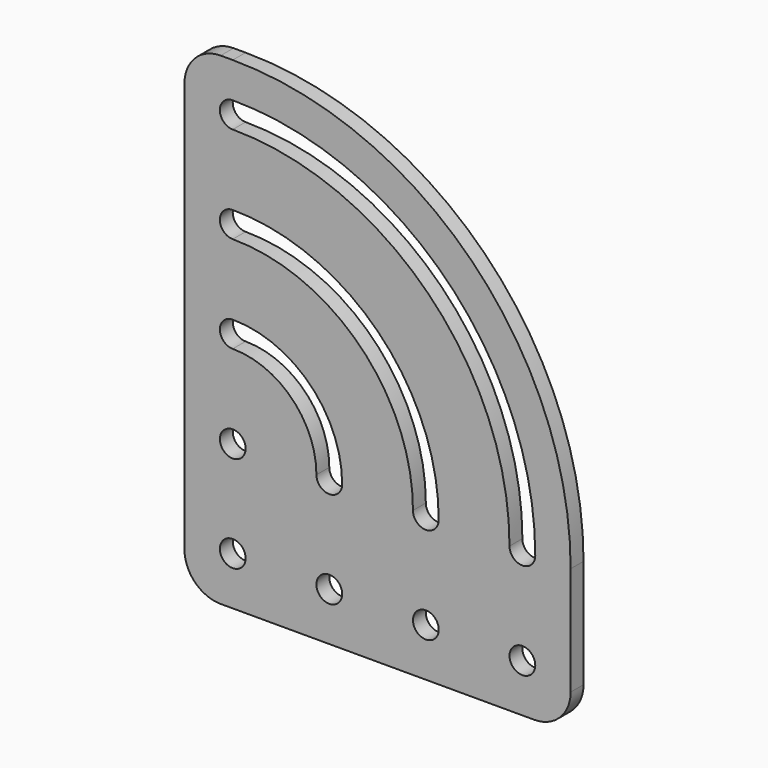
from build123d import *

# Parameters (mm, degrees)
F0_R     = 1.6
F1_DEPTH = 2


with BuildPart() as f1:
    # F0 (on Front) → F1 (new body)
    with BuildSketch(Plane.XZ):
        with BuildLine():
            ThreePointArc((0, 4.5), (1.318019, 1.318019), (4.5, 0))
            Line((4.5, 0), (43.5, 0))
            ThreePointArc((43.5, 0), (46.681981, 1.318019), (48, 4.5))
            Line((48, 4.5), (48, 18))
            ThreePointArc((48, 18), (35.698485, 47.698485), (6, 60))
            Line((6, 60), (4.5, 60))
            ThreePointArc((4.5, 60), (1.318019, 58.681981), (0, 55.5))
            Line((0, 55.5), (0, 4.5))
        make_face()
        with Locations((6, 6)):
            Circle(F0_R, mode=Mode.SUBTRACT)
        with Locations((18, 6)):
            Circle(F0_R, mode=Mode.SUBTRACT)
        with Locations((6, 18)):
            Circle(F0_R, mode=Mode.SUBTRACT)
        with BuildLine():
            ThreePointArc((16.4, 18), (13.353911, 25.353911), (6, 28.4))
            ThreePointArc((6, 28.4), (4.4, 30), (6, 31.6))
            ThreePointArc((6, 31.6), (15.616652, 27.616652), (19.6, 18))
            ThreePointArc((19.6, 18), (18, 16.4), (16.4, 18))
        make_face(mode=Mode.SUBTRACT)
        with Locations((30, 6)):
            Circle(F0_R, mode=Mode.SUBTRACT)
        with Locations((42, 6)):
            Circle(F0_R, mode=Mode.SUBTRACT)
        with BuildLine():
            ThreePointArc((28.4, 18), (21.839192, 33.839192), (6, 40.4))
            ThreePointArc((6, 40.4), (4.4, 42), (6, 43.6))
            ThreePointArc((6, 43.6), (24.101934, 36.101934), (31.6, 18))
            ThreePointArc((31.6, 18), (30, 16.4), (28.4, 18))
        make_face(mode=Mode.SUBTRACT)
        with BuildLine():
            ThreePointArc((40.4, 18), (30.324473, 42.324473), (6, 52.4))
            ThreePointArc((6, 52.4), (4.4, 54), (6, 55.6))
            ThreePointArc((6, 55.6), (32.587215, 44.587215), (43.6, 18))
            ThreePointArc((43.6, 18), (42, 16.4), (40.4, 18))
        make_face(mode=Mode.SUBTRACT)
    extrude(amount=F1_DEPTH)


solid = f1.part
